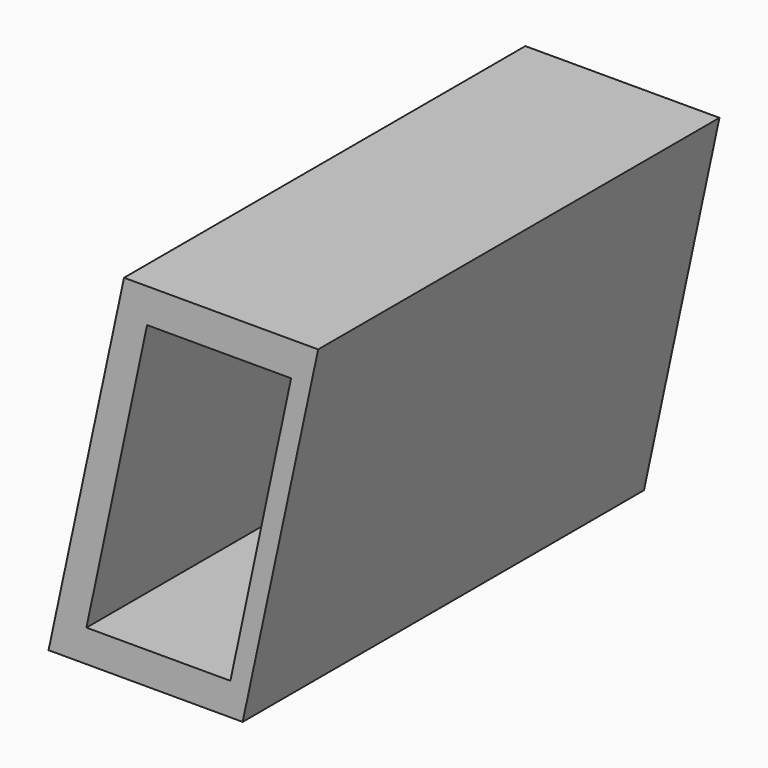
from build123d import *

# Parameters (mm, degrees)
F1_DEPTH = 76.2
F3_DEPTH = 38.1
F4_DEPTH = 38.1


with BuildPart() as f1:
    # F0 (on Front) → F1 (new body)
    with BuildSketch(Plane.XZ):
        Polygon((13.32986, 63.908778), (-16.15954, 63.908778), (-27.629351, 10.361006), (1.860049, 10.361006), align=None)
    extrude(amount=F1_DEPTH)

    # F2 (on Front) → F3 (cut, symmetric)
    with BuildSketch(Plane.XZ):
        Polygon((9.213624, 58.712374), (-12.659614, 58.712374), (-21.8694, 15.253705), (0, 15.253705), align=None)
    extrude(amount=F3_DEPTH, both=True, mode=Mode.SUBTRACT)

    # F3_face (on face) → F4 (cut, symmetric)
    with BuildSketch(Plane(origin=(-6.328713, -38.1, 36.983675), x_dir=(1, 0, 0), z_dir=(0, 1, 0))):
        Polygon((15.542337, -21.728699), (6.328713, 21.72997), (-15.540687, 21.72997), (-6.330902, -21.728699), align=None)
    extrude(amount=F4_DEPTH, both=True, mode=Mode.SUBTRACT)


solid = f1.part
